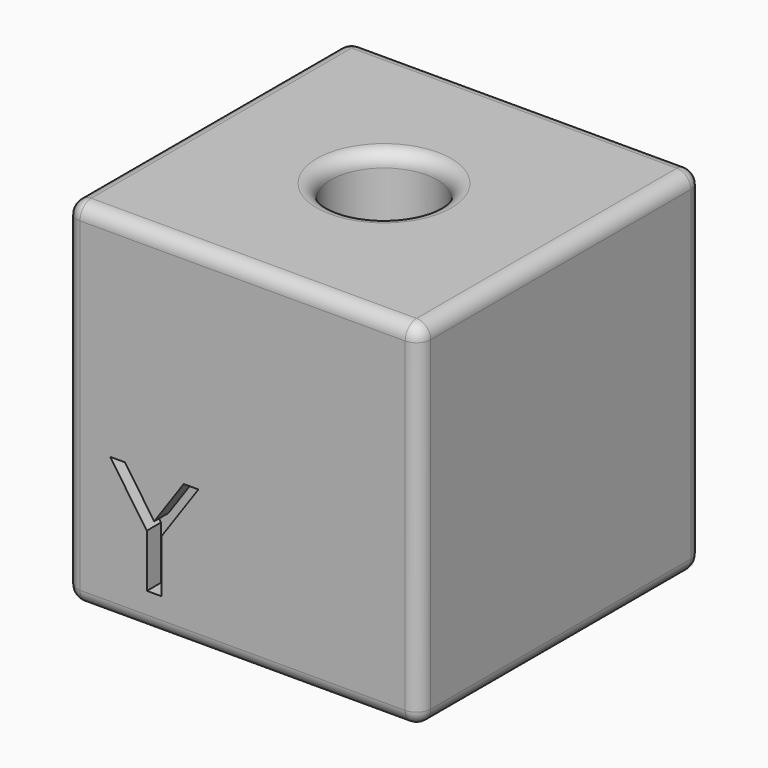
from build123d import *

# Parameters (mm, degrees)
SKETCH_W        = 20
SKETCH_H        = 20
PAD_DEPTH       = 20
POCKET_DEPTH    = 1
POCKET001_DEPTH = 1
SKETCH004_R     = 5
HOLE_DEPTH      = 10
HOLE_TIPS_R     = 5
SKETCH005_R     = 3
HOLE001_DEPTH   = 10
HOLE001_TIPS_R  = 3
FILLET_R        = 0.8
FILLET001_R     = 0.8


with BuildPart() as part:
    # Sketch → Pad (new body)
    with BuildSketch(Plane.XY):
        with Locations((10, 10)):
            Rectangle(SKETCH_W, SKETCH_H)
    extrude(amount=PAD_DEPTH)

    # Sketch002 → Pocket (cut)
    with BuildSketch(Plane.YZ):
        Polygon((7.5, 8), (6.666667, 8), (5, 5.6), (3.333333, 8), (2.5, 8), (4.583333, 5), (2.5, 2), (3.333333, 2), (5, 4.4), (6.666667, 2), (7.5, 2), (5.416667, 5), align=None)
    extrude(amount=POCKET_DEPTH, mode=Mode.SUBTRACT)

    # Sketch003 → Pocket001 (cut)
    with BuildSketch(Plane.XZ):
        Polygon((2.5, 8), (3.333333, 8), (5, 5.6), (6.666667, 8), (7.5, 8), (5.416667, 5), (5.416667, 2), (4.583333, 2), (4.583333, 5), align=None)
    extrude(amount=-POCKET001_DEPTH, mode=Mode.SUBTRACT)

    # Sketch004 → Hole (cut)
    with BuildSketch(Plane.XY):
        with Locations((10, 10)):
            Circle(SKETCH004_R)
    extrude(amount=HOLE_DEPTH, mode=Mode.SUBTRACT)

    # Hole tips → Hole tip 1 section 0
    with BuildSketch(Plane.XY.offset(10), mode=Mode.PRIVATE) as hole_tip_1_s0:
        with Locations((10, 10)):
            Circle(HOLE_TIPS_R)
    loft([hole_tip_1_s0.sketch, Vertex(10, 10, 13.004303)], mode=Mode.SUBTRACT)

    # Sketch005 (on DatumPlane) → Hole001 (cut)
    with BuildSketch(Plane.XY.offset(20)):
        with Locations((10, 10)):
            Circle(SKETCH005_R)
    extrude(amount=-HOLE001_DEPTH, mode=Mode.SUBTRACT)

    # Hole001 tips → Hole001 tip 1 section 0
    with BuildSketch(Plane.XY.offset(10), mode=Mode.PRIVATE) as hole001_tip_1_s0:
        with Locations((10, 10)):
            Circle(HOLE001_TIPS_R)
    loft([hole001_tip_1_s0.sketch, Vertex(10, 10, 8.197418)], mode=Mode.SUBTRACT)

    # Fillet
    fillet_edges = [part.edges().sort_by_distance(p)[0] for p in [
        (0, 0, 10),
        (0, 10, 20),
        (0, 20, 10),
        (10, 20, 20),
        (0, 10, 0),
        (10, 20, 0),
        (20, 20, 10),
        (20, 10, 0),
        (20, 0, 10),
        (10, 0, 0),
        (20, 10, 20),
        (10, 0, 20),
    ]]
    fillet(fillet_edges, radius=FILLET_R)

    # Fillet001
    fillet001_edges = [part.edges().sort_by_distance(p)[0] for p in [
        (7, 10, 20),
        (15, 10, 0),
    ]]
    fillet(fillet001_edges, radius=FILLET001_R)


solid = part.part
